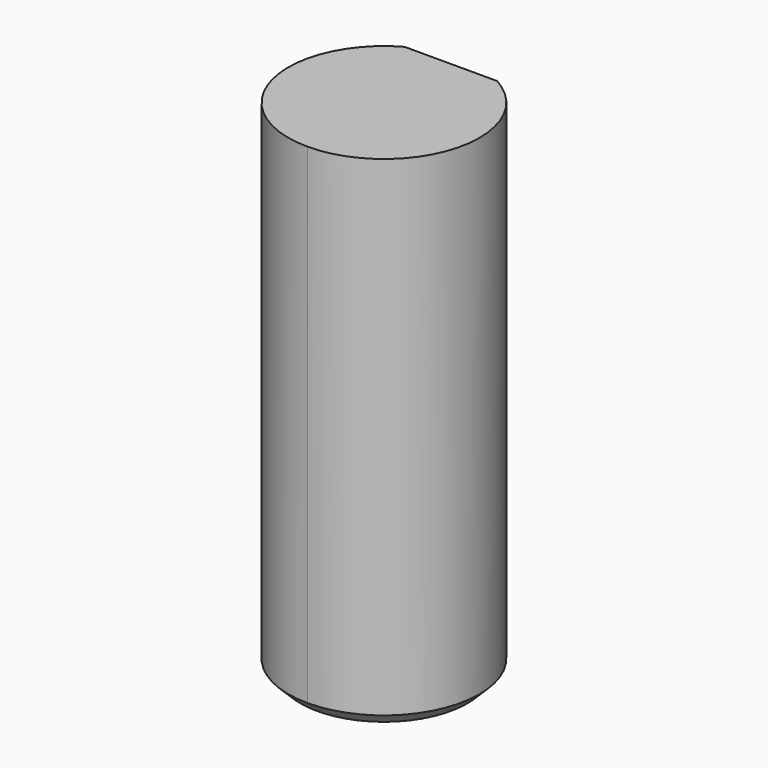
from build123d import *

# Parameters (mm, degrees)
PAD001_DEPTH = 21


with BuildPart() as part:
    # Sketch002 → Pad001 (new body)
    with BuildSketch(Plane.XY):
        with BuildLine():
            Line((0, 3.5), (1.936492, 3.5))
            ThreePointArc((0, -4), (3.872983, -1), (1.936492, 3.5))
            Line((0, -4), (0, 3.5))
        make_face()
    pad001 = extrude(amount=-PAD001_DEPTH)

    # Mirrored002: Pad001 across Sketch002 V_Axis
    add(pad001.mirror(Plane(origin=(0, 0, 0), x_dir=(0, 0, 1), z_dir=(1, 0, 0))))

    # Sketch003 → Groove (revolve, cut)
    with BuildSketch(Plane.YZ):
        Polygon((3.5, -21), (4, -20.5), (4, -21), align=None)
    revolve(axis=Axis((0, 0, 0), (0, 0, 1)), mode=Mode.SUBTRACT)


with BuildPart() as part_1:
    # Body001 placement: moved
    add(part.part.moved(Location((0, 0, -1.5))))


solid = part_1.part
